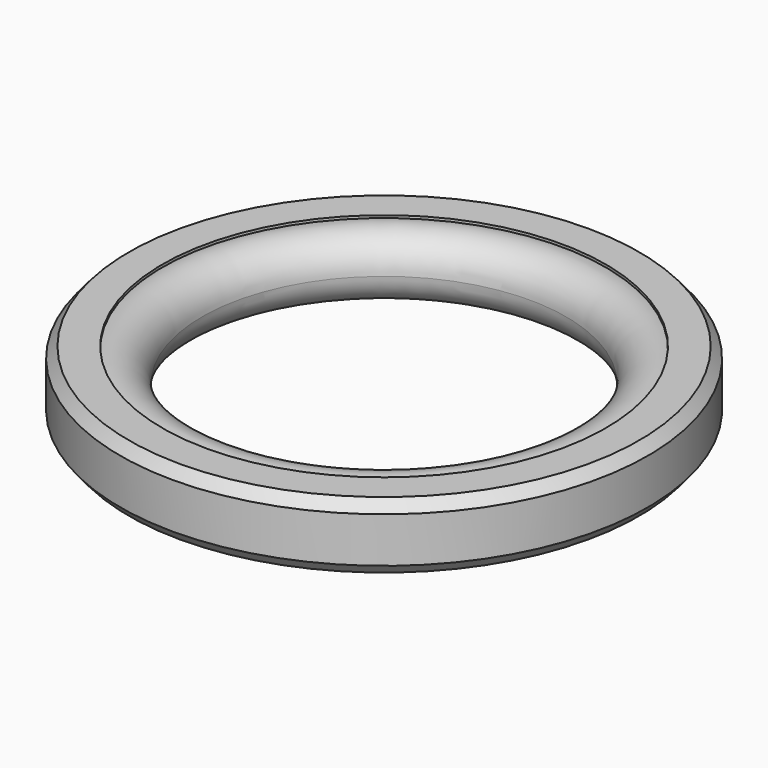
from build123d import *

# Parameters (mm, degrees)
F0_R = 3


with BuildPart() as f2:
    # F0 (on Right) → F2 (revolve)
    with BuildSketch(Plane.YZ):
        with Locations((-20.25, 0)):
            Circle(F0_R)
    revolve(axis=Axis((0, 0, 3.531123), (0, 0, 1)))

    # F1 (on Right) → F3 (revolve)
    with BuildSketch(Plane.YZ):
        Polygon((-21, -3.15), (-21, 3.15), (-24.1609, 3.15), (-25, 2.15), (-25, -2.15), (-24.1609, -3.15), align=None)
    revolve(axis=Axis((0, 0, 4.346792), (0, 0, 1)))


solid = f2.part
